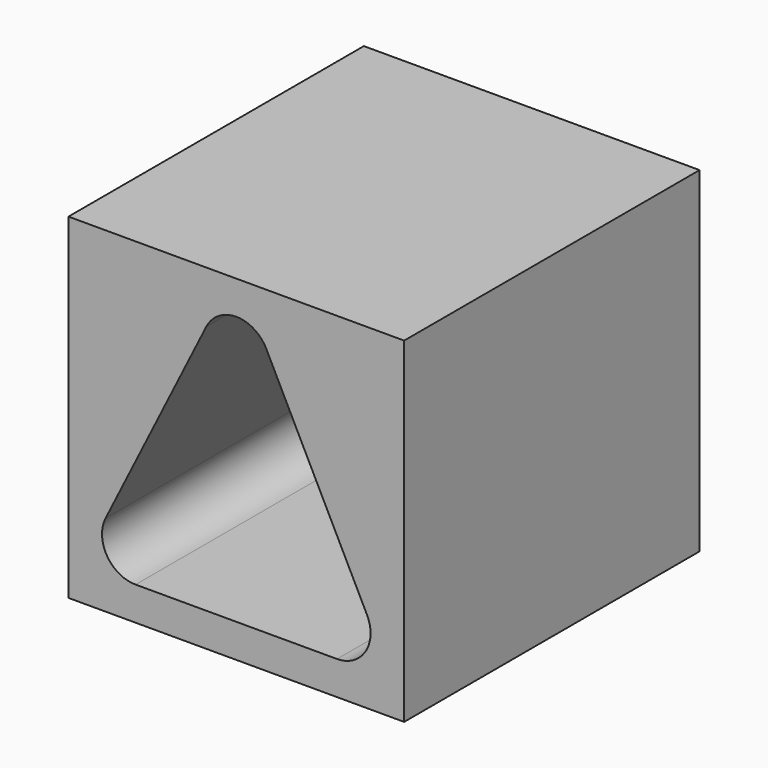
from build123d import *

# Parameters (mm, degrees)
F0_W     = 254
F0_H     = 254
F1_DEPTH = 279.4


with BuildPart() as f1:
    # F0 (on Front) → F1 (new body)
    with BuildSketch(Plane.XZ):
        with Locations((127, 127)):
            Rectangle(F0_W, F0_H)
        with BuildLine():
            ThreePointArc((50.8, 25.4), (29.193469, 37.44643), (28.081549, 62.159225))
            Line((28.081549, 62.159225), (104.281549, 214.559225))
            ThreePointArc((104.281549, 214.559225), (127, 228.6), (149.718451, 214.559225))
            Line((149.718451, 214.559225), (225.918451, 62.159225))
            ThreePointArc((225.918451, 62.159225), (224.806531, 37.44643), (203.2, 25.4))
            Line((203.2, 25.4), (50.8, 25.4))
        make_face(mode=Mode.SUBTRACT)
    extrude(amount=F1_DEPTH)


solid = f1.part
